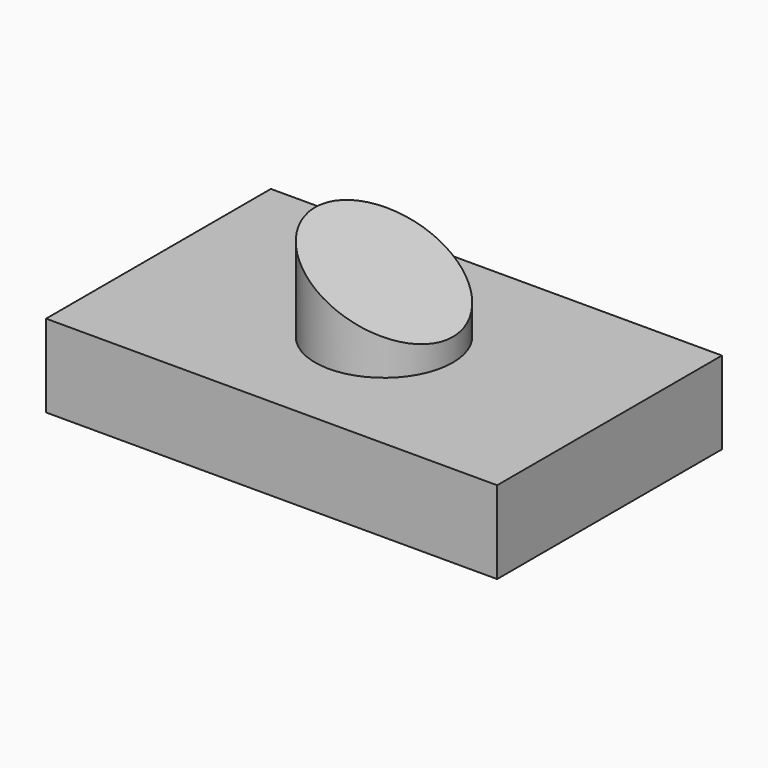
from build123d import *

# Parameters (mm, degrees)
F0_W     = 136.481836
F0_H     = 85.016138
F0_R     = 20.850767
F1_DEPTH = 25
F2_DEPTH = 52.8
F4_DEPTH = 47.6


with BuildPart() as f1:
    # F0 (on Top) → F1 (new body)
    with BuildSketch(Plane.XY):
        Rectangle(F0_W, F0_H)
        Circle(F0_R, mode=Mode.SUBTRACT)
    extrude(amount=F1_DEPTH)

    # F0 (on Top) → F2 (join)
    with BuildSketch(Plane.XY):
        Circle(F0_R)
    extrude(amount=F2_DEPTH)

    # F3 (on Front) → F4 (cut, symmetric)
    with BuildSketch(Plane.XZ):
        Polygon((20.850767, 52.8), (-20.850767, 52.8), (20.850767, 31.842455), align=None)
    extrude(amount=F4_DEPTH, both=True, mode=Mode.SUBTRACT)


solid = f1.part
